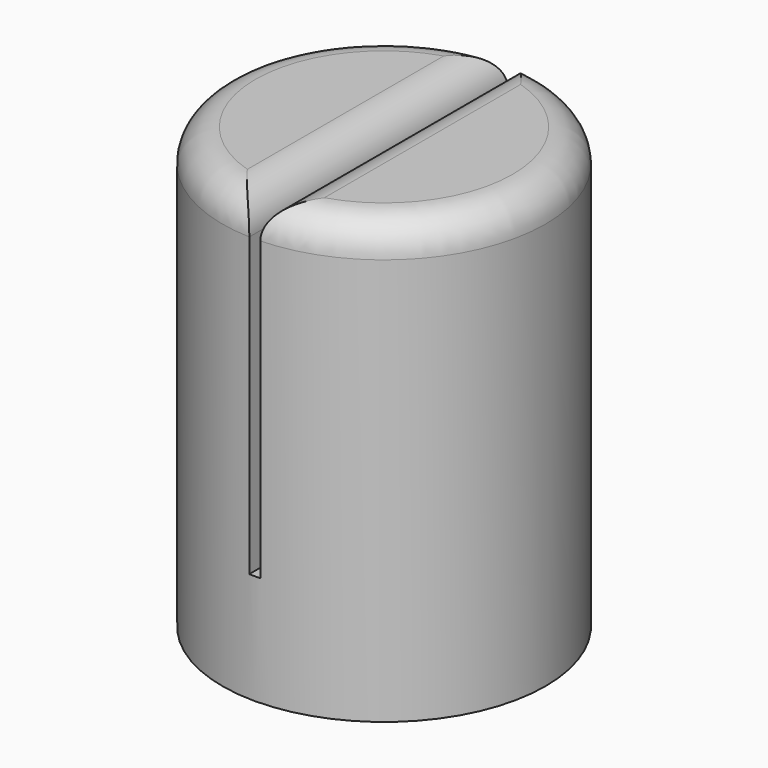
from build123d import *

# Parameters (mm, degrees)
SKETCH002_R  = 14.7
PAD002_DEPTH = 40
SKETCH003_W  = 1
SKETCH003_H  = 40
POCKET_DEPTH = 30
FILLET_R     = 3


with BuildPart() as part:
    # Sketch002 (on Binder) → Pad002 (new body)
    with BuildSketch(Plane(origin=(0, 0, -5), x_dir=(1, 0, 0), z_dir=(0, 0, -1))):
        Circle(SKETCH002_R)
    extrude(amount=-PAD002_DEPTH)

    # Sketch003 (on Face3 of Pad002) → Pocket (cut)
    with BuildSketch(Plane.XY.offset(35)):
        Rectangle(SKETCH003_W, SKETCH003_H)
    extrude(amount=-POCKET_DEPTH, mode=Mode.SUBTRACT)

    # Fillet
    fillet_edges = [part.edges().sort_by_distance(p)[0] for p in [
        (-14.7, 0, 35),
        (-0.5, 0, 35),
        (10.569768, -10.216164, 35),
        (0.5, 0, 35),
        (10.569768, 10.216164, 35),
    ]]
    fillet(fillet_edges, radius=FILLET_R)


solid = part.part
